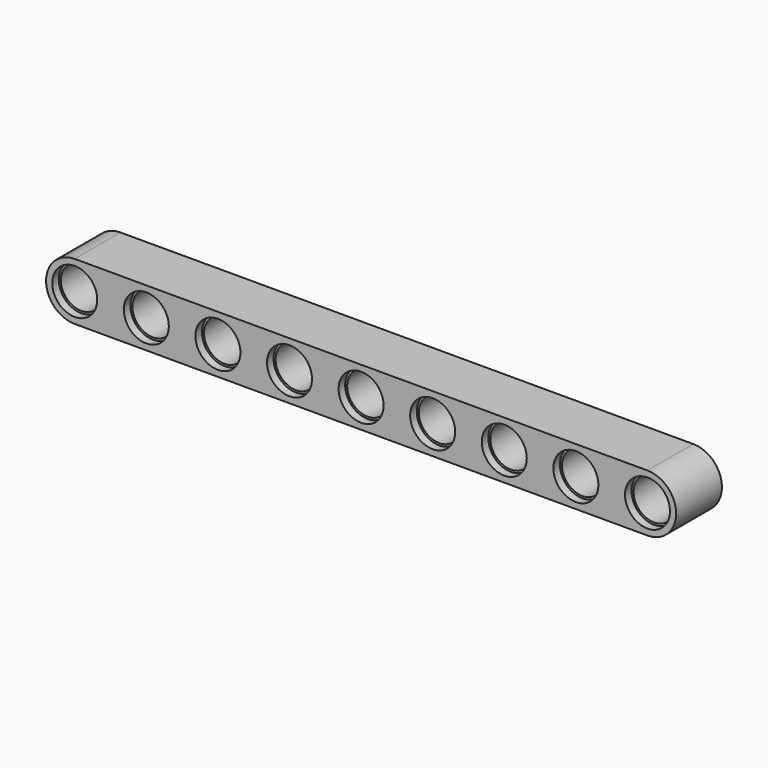
from build123d import *

# Parameters (mm, degrees)
F0_R     = 2.5
F1_DEPTH = 7
F2_R     = 2.75
F3_DEPTH = 1
F4_R     = 2.75
F5_DEPTH = 1


with BuildPart() as f1:
    # F0 (on Front) → F1 (new body)
    with BuildSketch(Plane.XZ):
        with BuildLine():
            ThreePointArc((35, -3.5), (38.5, 0), (35, 3.5))
            Line((35, 3.5), (-35, 3.5))
            ThreePointArc((-35, 3.5), (-38.5, 0), (-35, -3.5))
            Line((-35, -3.5), (35, -3.5))
        make_face()
        with Locations((-35, 0)):
            Circle(F0_R, mode=Mode.SUBTRACT)
        with Locations((-26.25, 0)):
            Circle(F0_R, mode=Mode.SUBTRACT)
        with Locations((-17.5, 0)):
            Circle(F0_R, mode=Mode.SUBTRACT)
        with Locations((-8.75, 0)):
            Circle(F0_R, mode=Mode.SUBTRACT)
        with Locations((0, 0)):
            Circle(F0_R, mode=Mode.SUBTRACT)
        with Locations((8.75, 0)):
            Circle(F0_R, mode=Mode.SUBTRACT)
        with Locations((17.5, 0)):
            Circle(F0_R, mode=Mode.SUBTRACT)
        with Locations((26.25, 0)):
            Circle(F0_R, mode=Mode.SUBTRACT)
        with Locations((35, 0)):
            Circle(F0_R, mode=Mode.SUBTRACT)
    extrude(amount=F1_DEPTH)

    # F2 (on face) → F3 (cut)
    with BuildSketch(Plane(origin=(0, 0, 0), x_dir=(-1, 0, 0), z_dir=(0, 1, 0))):
        with Locations((35, 0)):
            Circle(F2_R)
        with Locations((26.25, 0)):
            Circle(F2_R)
        with Locations((17.5, 0)):
            Circle(F2_R)
        with Locations((8.75, 0)):
            Circle(F2_R)
        with Locations((0, 0)):
            Circle(F2_R)
        with Locations((-8.75, 0)):
            Circle(F2_R)
        with Locations((-17.5, 0)):
            Circle(F2_R)
        with Locations((-26.25, 0)):
            Circle(F2_R)
        with Locations((-35, 0)):
            Circle(F2_R)
    extrude(amount=-F3_DEPTH, mode=Mode.SUBTRACT)

    # F4 (on face) → F5 (cut)
    with BuildSketch(Plane.XZ.offset(7)):
        with Locations((-35, 0)):
            Circle(F4_R)
        with Locations((-26.25, 0)):
            Circle(F4_R)
        with Locations((-17.5, 0)):
            Circle(F4_R)
        with Locations((-8.75, 0)):
            Circle(F4_R)
        with Locations((0, 0)):
            Circle(F4_R)
        with Locations((8.75, 0)):
            Circle(F4_R)
        with Locations((17.5, 0)):
            Circle(F4_R)
        with Locations((26.25, 0)):
            Circle(F4_R)
        with Locations((35, 0)):
            Circle(F4_R)
    extrude(amount=-F5_DEPTH, mode=Mode.SUBTRACT)


solid = f1.part
